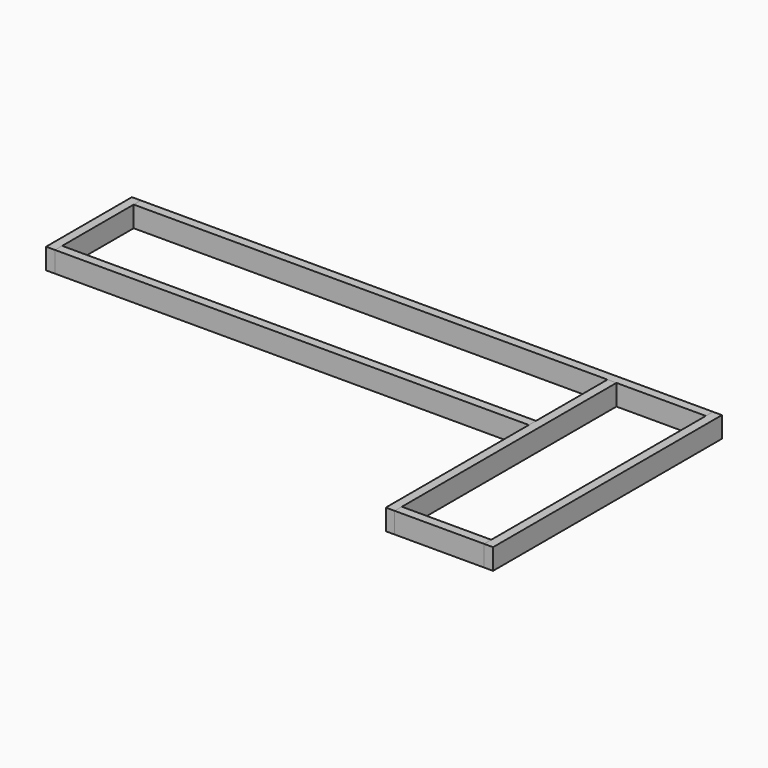
from build123d import *

# Parameters (mm, degrees)
F0_W          = 38.1
F0_H          = 88.9
F1_DEPTH      = 2438.4
F2_W          = 38.1
F2_H          = 88.9
F3_DEPTH      = 419.1
F3_DEPTH_BACK = 38.1
F4_W          = 38.1
F4_H          = 88.9
F5_DEPTH      = 2019.3
F6_W          = 38.1
F6_H          = 88.9
F7_DEPTH      = 1181.1
F7_DEPTH_BACK = 38.1
F8_W          = 38.1
F8_H          = 88.9
F9_DEPTH      = 381
F10_W         = 38.1
F10_H         = 88.9
F11_DEPTH     = 1181.1


with BuildPart() as f1:
    # F0 (on Right) → F1 (new body)
    with BuildSketch(Plane.YZ):
        with Locations((-19.05, 44.45)):
            Rectangle(F0_W, F0_H)
    extrude(amount=F1_DEPTH)


with BuildPart() as f3:
    # F2 (on face) → F3 (new body, two sides)
    with BuildSketch(Plane.XZ.offset(38.1)) as f3_sk:
        with Locations((-19.05, 44.45)):
            Rectangle(F2_W, F2_H)
    extrude(amount=F3_DEPTH)
    extrude(f3_sk.sketch, amount=-F3_DEPTH_BACK)


with BuildPart() as f5:
    # F4 (on Right) → F5 (new body)
    with BuildSketch(Plane.YZ):
        with Locations((-438.15, 44.45)):
            Rectangle(F4_W, F4_H)
    extrude(amount=F5_DEPTH)


with BuildPart() as f7:
    # F6 (on face) → F7 (new body, two sides)
    with BuildSketch(Plane.XZ.offset(38.1)) as f7_sk:
        with Locations((2457.45, 44.45)):
            Rectangle(F6_W, F6_H)
    extrude(amount=F7_DEPTH)
    extrude(f7_sk.sketch, amount=-F7_DEPTH_BACK)


with BuildPart() as f9:
    # F8 (on face) → F9 (new body)
    with BuildSketch(Plane(origin=(2438.4, 0, 0), x_dir=(0, -1, 0), z_dir=(-1, 0, 0))):
        with Locations((1200.15, 44.45)):
            Rectangle(F8_W, F8_H)
    extrude(amount=F9_DEPTH)


with BuildPart() as f11:
    # F10 (on face) → F11 (new body, through all)
    with BuildSketch(Plane.XZ.offset(1219.2)):
        with Locations((2038.35, 44.45)):
            Rectangle(F10_W, F10_H)
    extrude(amount=-F11_DEPTH)


solid = Compound([f1.part, f3.part, f5.part, f7.part, f9.part, f11.part])
